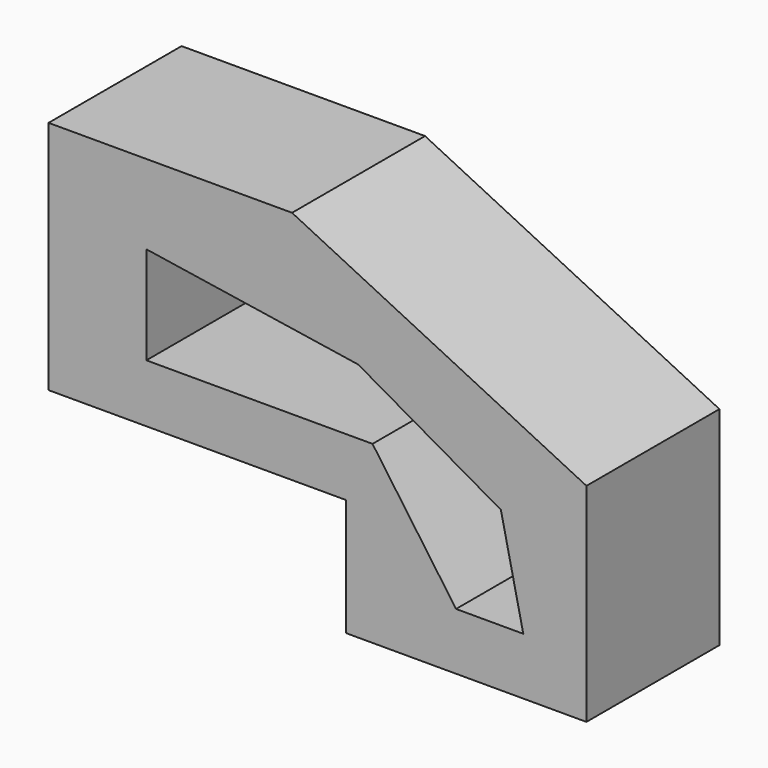
from build123d import *

# Parameters (mm, degrees)
F1_DEPTH = 12.7


with BuildPart() as f1:
    # F0 (on Front) → F1 (new body, symmetric)
    with BuildSketch(Plane.XZ):
        Polygon((-37.203092, 0), (0, 0), (8.250058, 0), (8.250058, -17.90107), (44.986166, -17.90107), (44.986166, 13.853871), (0, 35.957802), (-37.203092, 35.957802), align=None)
        Polygon((-22.259591, 8.872705), (-22.259591, 23.816206), (10.117996, 18.83504), (31.910602, 6.38212), (35.335157, -9.184027), (25.061497, -9.184027), (12.297258, 8.872705), align=None, mode=Mode.SUBTRACT)
    extrude(amount=F1_DEPTH, both=True)


solid = f1.part
